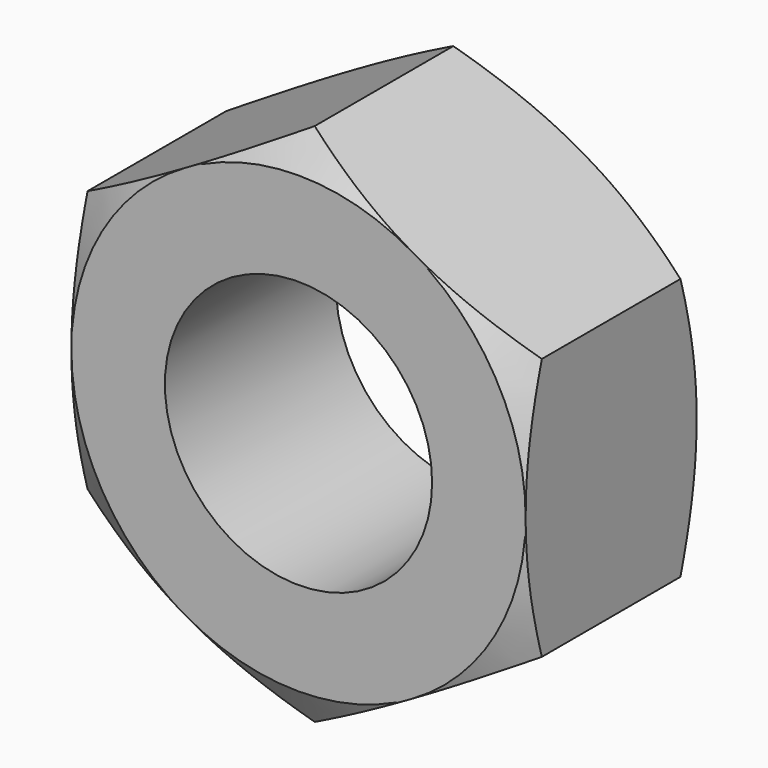
from build123d import *

# Parameters (mm, degrees)
F0_R     = 5
F1_DEPTH = 8


with BuildPart() as f1:
    # F0 (on Front) → F1 (new body)
    with BuildSketch(Plane.XZ):
        Polygon((8.5, -4.907477), (8.5, 4.907477), (0, 9.814955), (-8.5, 4.907477), (-8.5, -4.907477), (0, -9.814955), align=None)
        Circle(F0_R, mode=Mode.SUBTRACT)
    extrude(amount=F1_DEPTH)

    # F2 (on Top) → F3 (revolve, cut)
    with BuildSketch(Plane.XY):
        Polygon((11.583601, -1.780318), (11.583601, 0), (8.5, 0), align=None)
        Polygon((11.583601, -6.219682), (8.5, -8), (11.583601, -8), align=None)
    revolve(axis=Axis((0, -4, 0), (0, -1, 0)), mode=Mode.SUBTRACT)


solid = f1.part
